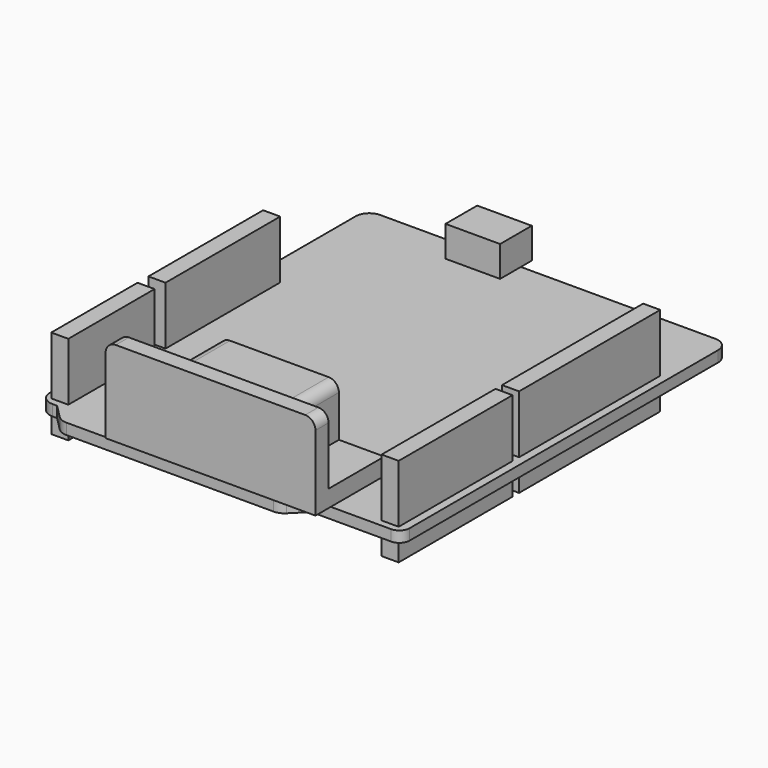
from build123d import *

# Parameters (mm, degrees)
F1_DEPTH  = 1.6
F2_W      = 2.5
F2_H      = 25.85
F2_H_2    = 20.85
F2_H_3    = 21
F2_H_4    = 15.8
F3_DEPTH  = 8.5
F4_DEPTH  = 4.6
F5_W      = 8
F5_H      = 5.8
F6_DEPTH  = 4.5
F7_W      = 30.75
F7_H      = 12.6
F8_DEPTH  = 12.5
F9_W      = 30.75
F9_H      = 10.2
F10_DEPTH = 10
F11_W     = 17.45
F11_H     = 10.2
F12_DEPTH = 7.6
F13_R     = 1.5


with BuildPart() as f1:
    # F0 (on Top) → F1 (new body)
    with BuildSketch(Plane.XY):
        with BuildLine():
            Line((28, 31.3), (-21.1, 31.3))
            ThreePointArc((-21.1, 31.3), (-22.514214, 30.714214), (-23.1, 29.3))
            Line((-23.1, 29.3), (-23.1, -26.7))
            ThreePointArc((-23.1, -26.7), (-22.514214, -28.114214), (-21.1, -28.7))
            Line((-21.1, -28.7), (-20.45, -28.7))
            Line((-20.45, -28.7), (-18.435786, -30.714214))
            ThreePointArc((-18.435786, -30.714214), (-17.78694, -31.147759), (-17.021573, -31.3))
            Line((-17.021573, -31.3), (13.371573, -31.3))
            ThreePointArc((13.371573, -31.3), (14.13694, -31.147759), (14.785786, -30.714214))
            Line((14.785786, -30.714214), (16.214214, -29.285786))
            ThreePointArc((16.214214, -29.285786), (16.86306, -28.852241), (17.628427, -28.7))
            Line((17.628427, -28.7), (28.5, -28.7))
            ThreePointArc((28.5, -28.7), (29.56066, -28.26066), (30, -27.2))
            Line((30, -27.2), (30, 29.3))
            ThreePointArc((30, 29.3), (29.414214, 30.714214), (28, 31.3))
        make_face()
    extrude(amount=F1_DEPTH)

    # F7 (on face) → F8 (join)
    with BuildSketch(Plane.XY.offset(1.6)):
        with Locations((4.275, -25.2)):
            Rectangle(F7_W, F7_H)
    extrude(amount=F8_DEPTH)

    # F9 (on face) → F10 (cut)
    with BuildSketch(Plane.XY.offset(14.1)):
        with Locations((4.275, -24)):
            Rectangle(F9_W, F9_H)
    extrude(amount=-F10_DEPTH, mode=Mode.SUBTRACT)

    # F11 (on face) → F12 (join)
    with BuildSketch(Plane.XY.offset(4.1)):
        with Locations((4.275, -24)):
            Rectangle(F11_W, F11_H)
    extrude(amount=F12_DEPTH)

    # F13
    f13_edges = [f1.edges().sort_by_distance(p)[0] for p in [
        (-4.45, -24, 11.7),
        (13, -24, 11.7),
        (19.65, -30.3, 14.1),
        (-11.1, -30.3, 14.1),
    ]]
    fillet(f13_edges, radius=F13_R)


with BuildPart() as f3:
    # F2 (on face) → F3 (new body)
    with BuildSketch(Plane.XY.offset(1.6)):
        with Locations((27.55, 7.275)):
            Rectangle(F2_W, F2_H)
        with Locations((27.55, -17.275)):
            Rectangle(F2_W, F2_H_2)
        with Locations((-20.85, 0.6)):
            Rectangle(F2_W, F2_H_3)
        with Locations((-20.85, -19.8)):
            Rectangle(F2_W, F2_H_4)
    extrude(amount=F3_DEPTH)


with BuildPart() as f4:
    # F2 (on face) → F4 (new body)
    with BuildSketch(Plane.XY.offset(1.6)):
        with Locations((27.55, 7.275)):
            Rectangle(F2_W, F2_H)
        with Locations((27.55, -17.275)):
            Rectangle(F2_W, F2_H_2)
        with Locations((-20.85, 0.6)):
            Rectangle(F2_W, F2_H_3)
        with Locations((-20.85, -19.8)):
            Rectangle(F2_W, F2_H_4)
    extrude(amount=-F4_DEPTH)


with BuildPart() as f6:
    # F5 (on face) → F6 (new body)
    with BuildSketch(Plane.XY.offset(1.6)):
        with Locations((-4.5, 30.4)):
            Rectangle(F5_W, F5_H)
    extrude(amount=F6_DEPTH)


solid = Compound([f1.part, f3.part, f4.part, f6.part])
